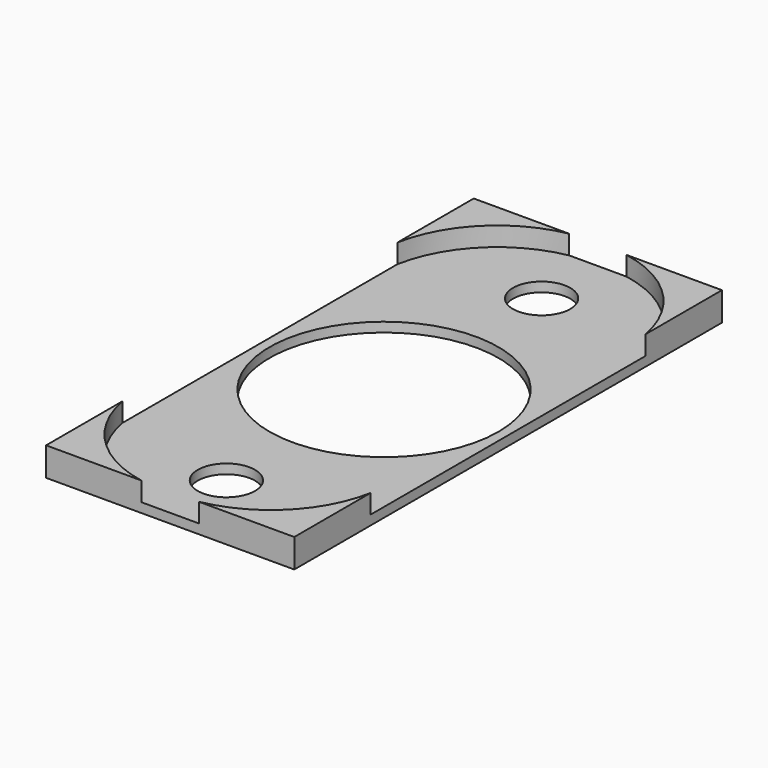
from build123d import *

# Parameters (mm, degrees)
SKETCH_W     = 26
SKETCH_H     = 56
SKETCH_R     = 3
SKETCH_R_2   = 12
PAD_DEPTH    = 1
PAD001_DEPTH = 3


with BuildPart() as part:
    # Sketch → Pad (new body)
    with BuildSketch(Plane.XY):
        Rectangle(SKETCH_W, SKETCH_H)
        with Locations((0, 20.6375)):
            Circle(SKETCH_R, mode=Mode.SUBTRACT)
        with Locations((0, -20.6375)):
            Circle(SKETCH_R, mode=Mode.SUBTRACT)
        Circle(SKETCH_R_2, mode=Mode.SUBTRACT)
    extrude(amount=PAD_DEPTH)

    # Sketch001 → Pad001 (join)
    with BuildSketch(Plane.XY):
        with BuildLine():
            ThreePointArc((-3, 28), (-9.550145, 24.550145), (-13, 18))
            Line((-13, 18), (-13, 28))
            Line((-13, 28), (-3, 28))
        make_face()
        with BuildLine():
            ThreePointArc((13, 18), (9.550145, 24.550145), (3, 28))
            Line((13, 28), (3, 28))
            Line((13, 18), (13, 28))
        make_face()
        with BuildLine():
            ThreePointArc((-13, -18), (-9.550145, -24.550145), (-3, -28))
            Line((-13, -28), (-3, -28))
            Line((-13, -18), (-13, -28))
        make_face()
        with BuildLine():
            ThreePointArc((3, -28), (9.550145, -24.550145), (13, -18))
            Line((13, -28), (13, -18))
            Line((3, -28), (13, -28))
        make_face()
    extrude(amount=PAD001_DEPTH)


solid = part.part
